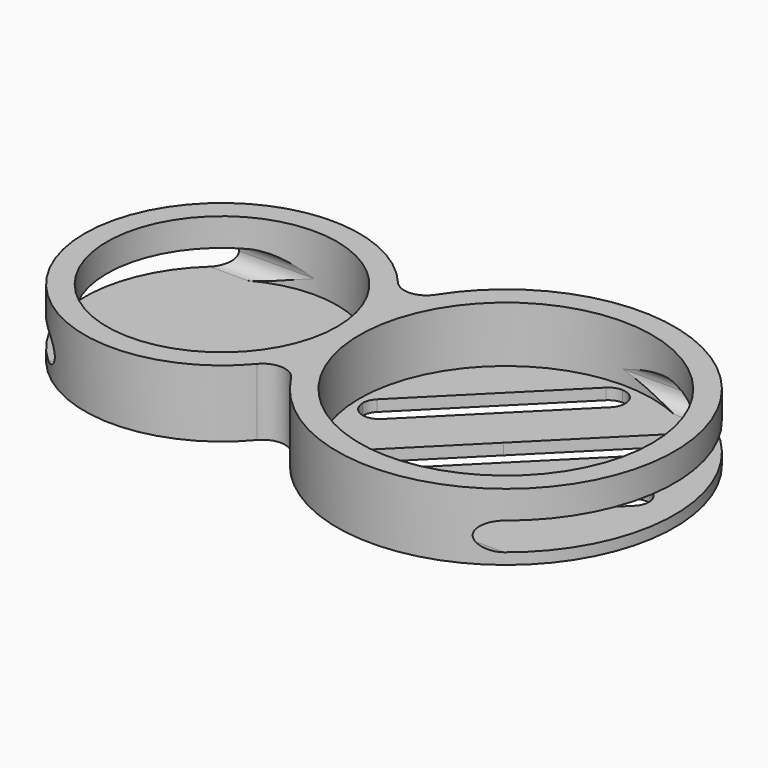
from build123d import *

# Parameters (mm, degrees)
F0_R      = 10.3
F0_R_2    = 13.1
F1_DEPTH  = 1
F2_DEPTH  = 6
F5_DEPTH  = 28.7
F8_DEPTH  = 25.9
F10_DEPTH = 25


with BuildPart() as f1:
    # F0 (on Top) → F1 (new body)
    with BuildSketch(Plane.XY):
        with BuildLine():
            ThreePointArc((-1.864875, -7.891034), (-0.200569, -7.178368), (1.357094, -8.101132))
            ThreePointArc((1.357094, -8.101132), (29.2, 0), (1.357094, 8.101132))
            ThreePointArc((1.357094, 8.101132), (-0.200569, 7.178368), (-1.864875, 7.891034))
            ThreePointArc((-1.864875, 7.891034), (-23.6, 0), (-1.864875, -7.891034))
        make_face()
        with Locations((-11.3, 0)):
            Circle(F0_R, mode=Mode.SUBTRACT)
        with Locations((14.1, 0)):
            Circle(F0_R_2, mode=Mode.SUBTRACT)
        with Locations((-11.3, 0)):
            Circle(F0_R)
        with Locations((14.1, 0)):
            Circle(F0_R_2)
    extrude(amount=F1_DEPTH)

    # F0 (on Top) → F2 (join)
    with BuildSketch(Plane.XY):
        with BuildLine():
            ThreePointArc((-1.864875, -7.891034), (-0.200569, -7.178368), (1.357094, -8.101132))
            ThreePointArc((1.357094, -8.101132), (29.2, 0), (1.357094, 8.101132))
            ThreePointArc((1.357094, 8.101132), (-0.200569, 7.178368), (-1.864875, 7.891034))
            ThreePointArc((-1.864875, 7.891034), (-23.6, 0), (-1.864875, -7.891034))
        make_face()
        with Locations((-11.3, 0)):
            Circle(F0_R, mode=Mode.SUBTRACT)
        with Locations((14.1, 0)):
            Circle(F0_R_2, mode=Mode.SUBTRACT)
    extrude(amount=F2_DEPTH)

    # F4 (on offset) → F5 (cut)
    with BuildSketch(Plane.YZ.offset(-40)):
        with BuildLine():
            ThreePointArc((10.3, 2.25), (9.933883, 3.133883), (9.05, 3.5))
            Line((9.05, 3.5), (-9.05, 3.5))
            ThreePointArc((-9.05, 3.5), (-9.933883, 3.133883), (-10.3, 2.25))
            ThreePointArc((-10.3, 2.25), (-9.933883, 1.366117), (-9.05, 1))
            Line((-9.05, 1), (9.05, 1))
            ThreePointArc((9.05, 1), (9.933883, 1.366117), (10.3, 2.25))
        make_face()
    extrude(amount=F5_DEPTH, mode=Mode.SUBTRACT)

    # F7 (on offset) → F8 (cut)
    with BuildSketch(Plane.YZ.offset(40)):
        with BuildLine():
            Line((11.85, 3.5), (-11.85, 3.5))
            ThreePointArc((-11.85, 3.5), (-12.733883, 3.133883), (-13.1, 2.25))
            ThreePointArc((-13.1, 2.25), (-12.733883, 1.366117), (-11.85, 1))
            Line((-11.85, 1), (11.85, 1))
            ThreePointArc((11.85, 1), (12.733883, 1.366117), (13.1, 2.25))
            ThreePointArc((13.1, 2.25), (12.733883, 3.133883), (11.85, 3.5))
        make_face()
    extrude(amount=-F8_DEPTH, mode=Mode.SUBTRACT)

    # F9 (on face) → F10 (cut)
    with BuildSketch(Plane.XY.offset(1)):
        with BuildLine():
            ThreePointArc((15.547263, 9.932544), (13.425942, 9.932544), (13.425942, 12.053864))
            Line((13.425942, 12.053864), (2.046136, 0.674058))
            ThreePointArc((2.046136, 0.674058), (3.680821, 0.999217), (4.606796, -0.386602))
            ThreePointArc((4.606796, -0.386602), (4.492615, -0.960628), (4.167456, -1.447263))
            Line((4.167456, -1.447263), (15.547263, 9.932544))
        make_face()
        with BuildLine():
            ThreePointArc((15.986602, 10.993204), (15.565741, 12.035059), (14.539321, 12.492277))
            ThreePointArc((14.539321, 12.492277), (13.937023, 12.388898), (13.425942, 12.053864))
            ThreePointArc((13.425942, 12.053864), (13.425942, 9.932544), (15.547263, 9.932544))
            ThreePointArc((15.547263, 9.932544), (15.872422, 10.419179), (15.986602, 10.993204))
        make_face()
        with BuildLine():
            ThreePointArc((2.046136, 0.674058), (1.711102, 0.162977), (1.607723, -0.439321))
            ThreePointArc((1.607723, -0.439321), (2.557216, -1.782297), (4.167456, -1.447263))
            ThreePointArc((4.167456, -1.447263), (4.492615, -0.960628), (4.606796, -0.386602))
            ThreePointArc((4.606796, -0.386602), (3.680821, 0.999217), (2.046136, 0.674058))
        make_face()
        with BuildLine():
            ThreePointArc((22.938835, 6.717514), (23.378175, 7.778175), (22.938835, 8.838835))
            ThreePointArc((22.938835, 8.838835), (21.878175, 9.278175), (20.817514, 8.838835))
            Line((20.817514, 8.838835), (13.03934, 1.06066))
            Line((13.03934, 1.06066), (5.261165, -6.717514))
            ThreePointArc((5.261165, -6.717514), (4.821825, -7.778175), (5.261165, -8.838835))
            ThreePointArc((5.261165, -8.838835), (6.321825, -9.278175), (7.382486, -8.838835))
            Line((7.382486, -8.838835), (22.938835, 6.717514))
        make_face()
        with BuildLine():
            ThreePointArc((26.153864, -0.674058), (24.032544, -0.674058), (24.032544, 1.447263))
            Line((24.032544, 1.447263), (12.652737, -9.932544))
            ThreePointArc((12.652737, -9.932544), (14.287423, -9.607385), (15.213398, -10.993204))
            ThreePointArc((15.213398, -10.993204), (15.099217, -11.567229), (14.774058, -12.053864))
            Line((14.774058, -12.053864), (26.153864, -0.674058))
        make_face()
        with BuildLine():
            ThreePointArc((12.652737, -9.932544), (12.317703, -11.542784), (13.660679, -12.492277))
            ThreePointArc((13.660679, -12.492277), (14.262977, -12.388898), (14.774058, -12.053864))
            ThreePointArc((14.774058, -12.053864), (15.099217, -11.567229), (15.213398, -10.993204))
            ThreePointArc((15.213398, -10.993204), (14.287423, -9.607385), (12.652737, -9.932544))
        make_face()
        with BuildLine():
            ThreePointArc((26.593204, 0.386602), (26.592973, 0.412966), (26.592277, 0.439321))
            ThreePointArc((26.592277, 0.439321), (25.642784, 1.782297), (24.032544, 1.447263))
            ThreePointArc((24.032544, 1.447263), (24.032544, -0.674058), (26.153864, -0.674058))
            ThreePointArc((26.153864, -0.674058), (26.479023, -0.187423), (26.593204, 0.386602))
        make_face()
    extrude(amount=-F10_DEPTH, mode=Mode.SUBTRACT)


solid = f1.part
